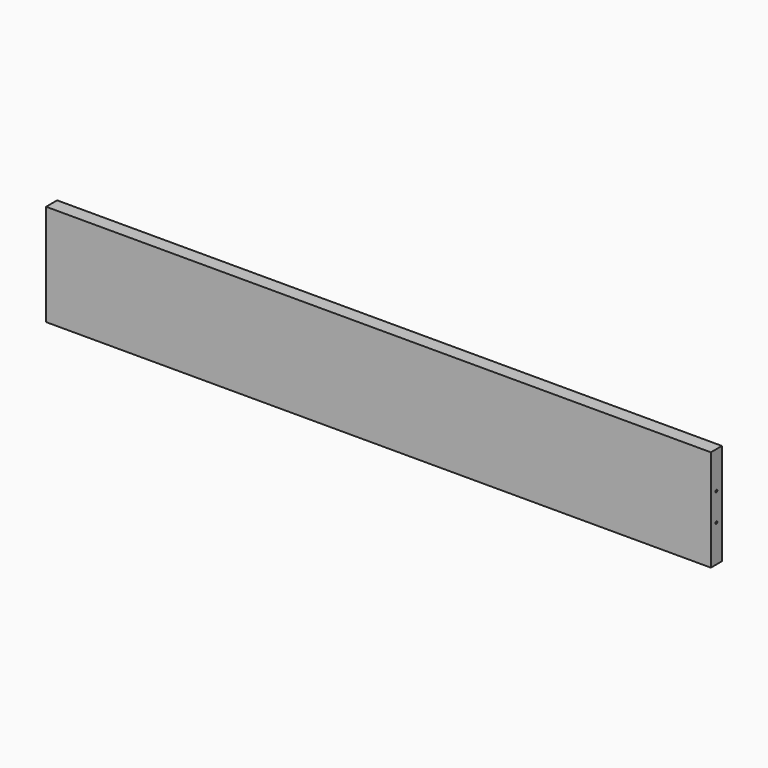
from build123d import *

# Parameters (mm, degrees)
F0_W     = 914.4
F0_H     = 139.7
F1_DEPTH = 19.05
F3_D     = 3.175
F3_DEPTH = 12.7
F3_TIP   = 0.9538662327
F5_D     = 3.175
F5_DEPTH = 12.7
F5_TIP   = 0.9538662327
F7_D     = 3.175
F7_DEPTH = 12.7
F7_TIP   = 0.9538662327


with BuildPart() as f1:
    # F0 (on Front) → F1 (new body)
    with BuildSketch(Plane.XZ):
        with Locations((263.6766368695, -59.9929172248)):
            Rectangle(F0_W, F0_H)
    extrude(amount=F1_DEPTH)

    # F3
    with Locations(Plane.YZ.offset(720.8766368695)):
        with Locations((-9.525, -40.9429172248), (-9.525, -79.0429172248)):
            Hole(F3_D / 2, depth=F3_DEPTH)
            with Locations((0, 0, -(F3_DEPTH + F3_TIP / 2))):  # 118° drill point
                Cone(0, F3_D / 2, F3_TIP, mode=Mode.SUBTRACT)

    # F5
    with Locations(Plane(origin=(-193.5233631305, 0, 0), x_dir=(0, -1, 0), z_dir=(-1, 0, 0))):
        with Locations((9.525, -40.9429172248), (9.525, -79.0429172248)):
            Hole(F5_D / 2, depth=F5_DEPTH)
            with Locations((0, 0, -(F5_DEPTH + F5_TIP / 2))):  # 118° drill point
                Cone(0, F5_D / 2, F5_TIP, mode=Mode.SUBTRACT)

    # F7
    with Locations(Plane(origin=(0, 0, 0), x_dir=(-1, 0, 0), z_dir=(0, 1, 0))):
        with Locations((-593.8766368695, -120.3179172248), (66.5233631305, -120.3179172248)):
            Hole(F7_D / 2, depth=F7_DEPTH)
            with Locations((0, 0, -(F7_DEPTH + F7_TIP / 2))):  # 118° drill point
                Cone(0, F7_D / 2, F7_TIP, mode=Mode.SUBTRACT)


solid = f1.part
